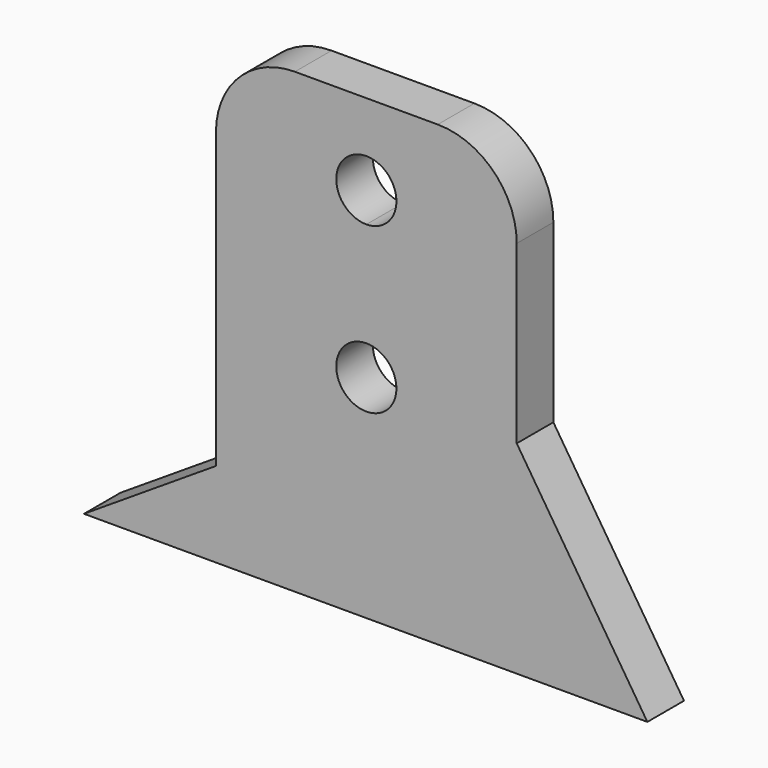
from build123d import *

# Parameters (mm, degrees)
F1_DEPTH = 3.5


with BuildPart() as f1:
    # F0 (on Front) → F1 (new body)
    with BuildSketch(Plane.XZ):
        with BuildLine():
            Line((0, 6.5), (0, 0))
            Line((0, 0), (23, 0))
            Line((23, 0), (23, 15.5))
            Line((23, 15.5), (23, 28.961353))
            ThreePointArc((23, 28.961353), (21.231321, 33.231321), (16.961353, 35))
            Line((16.961353, 35), (11.5, 35))
            Line((11.5, 35), (6.038647, 35))
            ThreePointArc((6.038647, 35), (1.768679, 33.231321), (0, 28.961353))
            Line((0, 28.961353), (0, 6.5))
        make_face()
        with BuildLine():
            ThreePointArc((13.8, 16.2), (9.873654, 14.573654), (11.5, 18.5))
            ThreePointArc((11.5, 18.5), (13.126346, 17.826346), (13.8, 16.2))
        make_face(mode=Mode.SUBTRACT)
        with BuildLine():
            ThreePointArc((11.5, 26.5), (9.2, 28.8), (11.5, 31.1))
            ThreePointArc((11.5, 31.1), (13.126346, 30.426346), (13.8, 28.8))
            ThreePointArc((13.8, 28.8), (13.126346, 27.173654), (11.5, 26.5))
        make_face(mode=Mode.SUBTRACT)
        Polygon((23, 15.5), (23, 0), (32.987984, 0), align=None)
        Polygon((-10.087121, 0), (0, 0), (0, 6.5), align=None)
    extrude(amount=F1_DEPTH)


solid = f1.part
